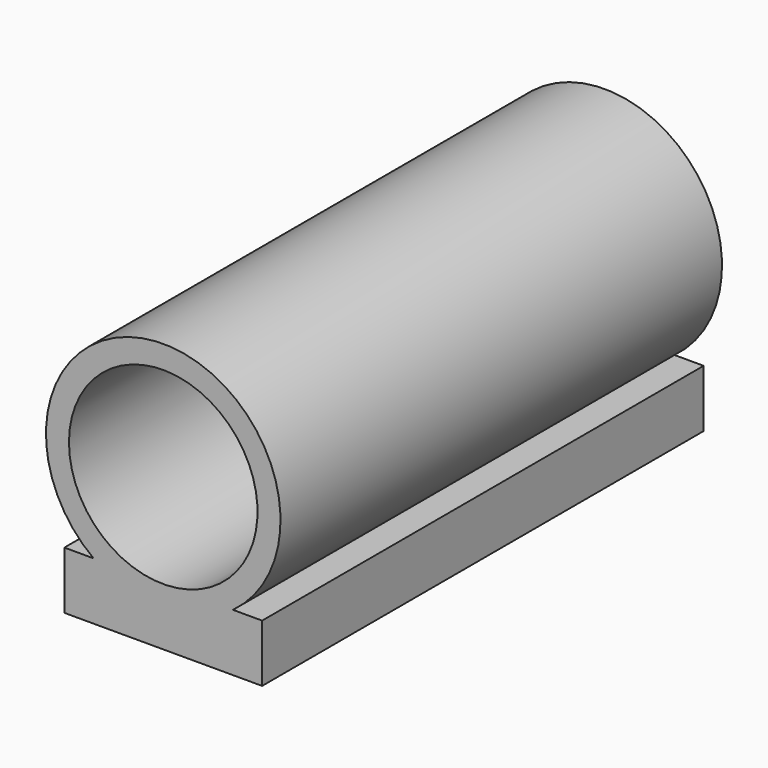
from build123d import *

# Parameters (mm, degrees)
F0_R     = 6.477
F1_DEPTH = 30.48
F2_R     = 5.207
F3_DEPTH = 30.48
F5_W     = 10.922
F5_H     = 30.48
F6_DEPTH = 3.175
F7_R     = 1.27
F8_DEPTH = 2.38125


with BuildPart() as f1:
    # F0 (on Front) → F1 (new body)
    with BuildSketch(Plane.XZ):
        Circle(F0_R)
    extrude(amount=F1_DEPTH)

    # F2 (on face) → F3 (cut, through all)
    with BuildSketch(Plane(origin=(0, 0, 0), x_dir=(-1, 0, 0), z_dir=(0, 1, 0))):
        Circle(F2_R)
    extrude(amount=-F3_DEPTH, mode=Mode.SUBTRACT)

    # F5 (on offset) → F6 (join)
    with BuildSketch(Plane.XY.offset(-5.207)):
        with Locations((0, -15.24)):
            Rectangle(F5_W, F5_H)
    extrude(amount=-F6_DEPTH)

    # F7 (on face) → F8 (cut)
    with BuildSketch(Plane(origin=(0, 0, -8.382), x_dir=(1, 0, 0), z_dir=(0, 0, -1))):
        with BuildLine():
            Line((3.569046, 6.647212), (2.050303, 24.884939))
            ThreePointArc((2.050303, 24.884939), (0, 26.7716), (-2.050303, 24.884939))
            Line((-2.050303, 24.884939), (-3.569046, 6.647212))
            ThreePointArc((-3.569046, 6.647212), (0, 2.7686), (3.569046, 6.647212))
        make_face()
        with Locations((0, 6.35)):
            Circle(F7_R, mode=Mode.SUBTRACT)
        with Locations((0, 6.35)):
            Circle(F7_R)
    extrude(amount=-F8_DEPTH, mode=Mode.SUBTRACT)


solid = f1.part
